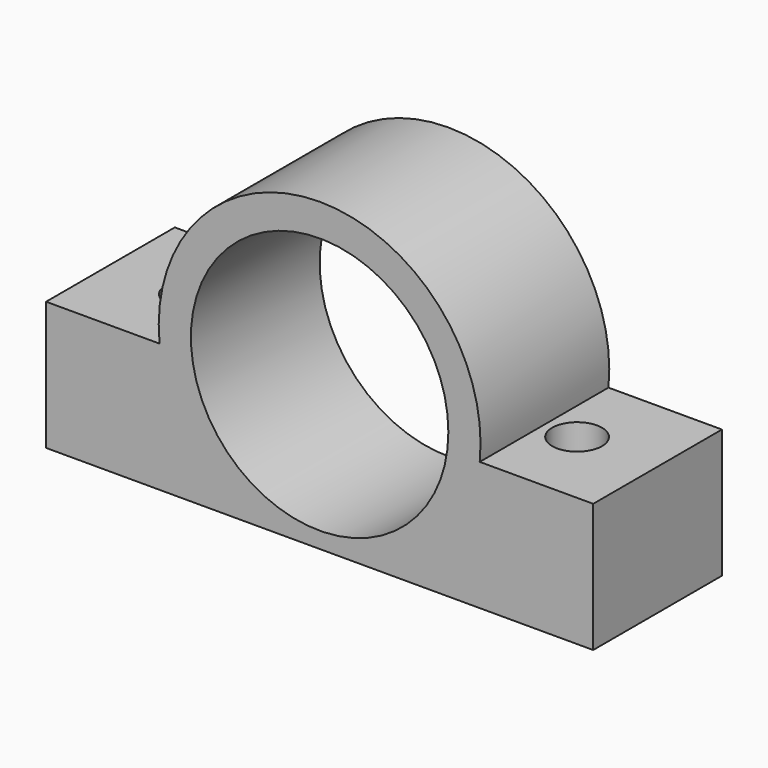
from build123d import *

# Parameters (mm, degrees)
F0_R     = 8
F1_DEPTH = 10
F2_R     = 1.55
F3_DEPTH = 8


with BuildPart() as f1:
    # F0 (on Front) → F1 (new body)
    with BuildSketch(Plane.XZ):
        with BuildLine():
            Line((-17, -1), (-17, -9))
            Line((-17, -9), (17, -9))
            Line((17, -9), (17, -1))
            Line((17, -1), (9.949874, -1))
            ThreePointArc((9.949874, -1), (0, 10), (-9.949874, -1))
            Line((-9.949874, -1), (-17, -1))
        make_face()
        Circle(F0_R, mode=Mode.SUBTRACT)
    extrude(amount=F1_DEPTH)

    # F2 (on face) → F3 (cut, through all)
    with BuildSketch(Plane(origin=(0, 0, -9), x_dir=(1, 0, 0), z_dir=(0, 0, -1))):
        with Locations((-12, 5)):
            Circle(F2_R)
        with Locations((12, 5)):
            Circle(F2_R)
    extrude(amount=-F3_DEPTH, mode=Mode.SUBTRACT)


solid = f1.part
